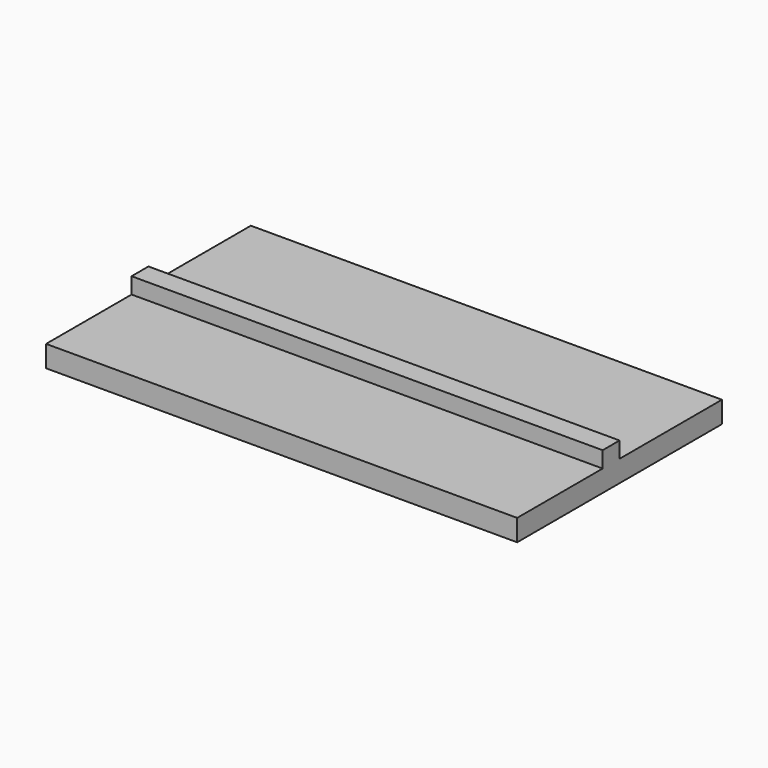
from build123d import *

# Parameters (mm, degrees)
F0_W     = 33.381108
F0_H     = 31.062972
F0_W_2   = 27.94
F0_H_2   = 25.6794
F1_DEPTH = 6.35
F2_DEPTH = 60.452
F3_W     = 111.270344
F3_H     = 4.986666
F4_DEPTH = 3.81


with BuildPart() as f1:
    # F0 (on Front) → F1 (new body)
    with BuildSketch(Plane.XZ):
        with Locations((0.309085, -15.531486)):
            Rectangle(F0_W, F0_H)
        with Locations((0.988458, -14.205176)):
            Rectangle(F0_W_2, F0_H_2, mode=Mode.SUBTRACT)
    extrude(amount=F1_DEPTH)

    # F0 (on Front) → F2 (join)
    with BuildSketch(Plane.XZ):
        Polygon((-55.94426, 5.08), (-55.94426, 0), (-16.381469, 0), (16.999639, 0), (55.326084, 0), (55.326084, 5.08), align=None)
    extrude(amount=F2_DEPTH)

    # F3 (on face) → F4 (join)
    with BuildSketch(Plane.XY.offset(5.08)):
        with Locations((-0.309088, -32.719333)):
            Rectangle(F3_W, F3_H)
    extrude(amount=F4_DEPTH)


solid = f1.part
